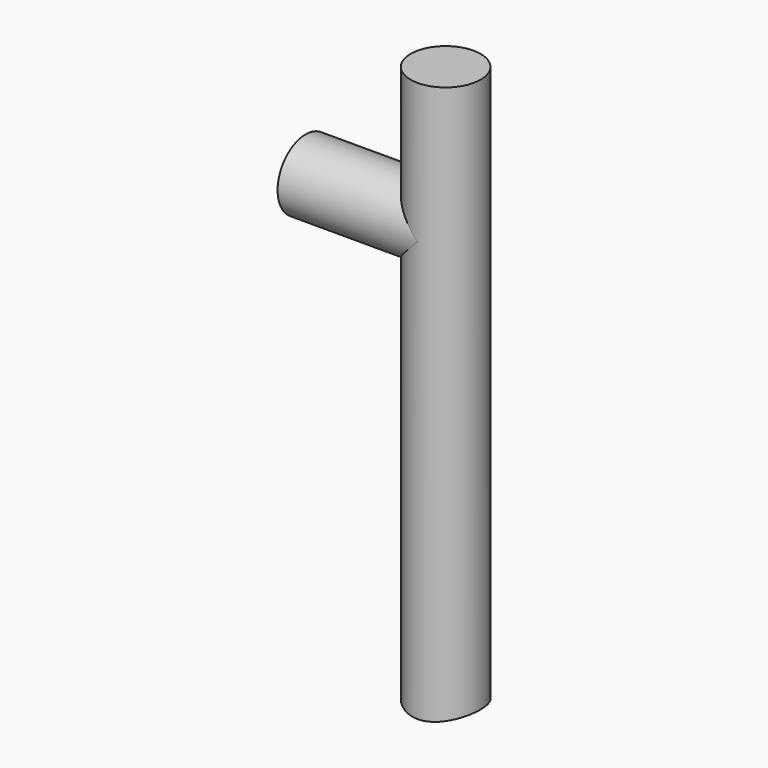
from build123d import *

# Parameters (mm, degrees)
F0_W     = 12.7
F0_H     = 3.175
F2_R     = 3.175
F3_DEPTH = 3.175
F5_R     = 3.175
F6_DEPTH = 50.8
F7_R     = 10.16
F8_DEPTH = 25.4


with BuildPart() as f1:
    # F0 (on Top) → F1 (revolve)
    with BuildSketch(Plane.XY):
        with Locations((0, -1.5875)):
            Rectangle(F0_W, F0_H)
    revolve(axis=Axis((2.249268, 0, 0), (1, 0, 0)))

    # F2 (on Top) → F3 (cut, symmetric)
    with BuildSketch(Plane.XY):
        with Locations((6.35, 0)):
            Circle(F2_R)
    extrude(amount=F3_DEPTH, both=True, mode=Mode.SUBTRACT)

    # F5 (on offset) → F6 (join)
    with BuildSketch(Plane.XY.offset(12.7)):
        with Locations((6.35, 0)):
            Circle(F5_R)
    extrude(amount=-F6_DEPTH)

    # F7 (on Right) → F8 (cut)
    with BuildSketch(Plane.YZ):
        with Locations((0, -47.751164)):
            Circle(F7_R)
    extrude(amount=F8_DEPTH, mode=Mode.SUBTRACT)


solid = f1.part
